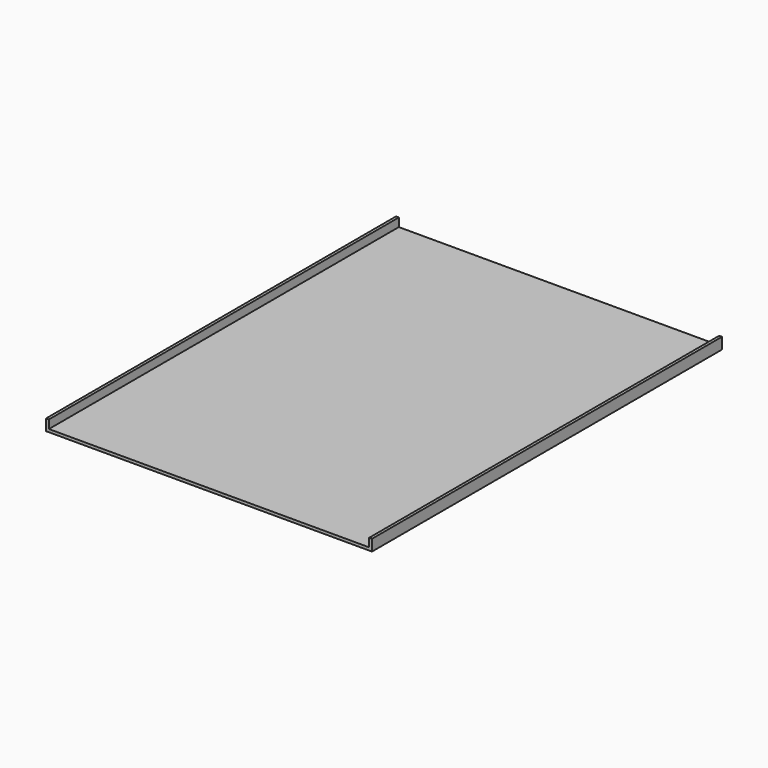
from build123d import *

# Parameters (mm, degrees)
F0_W     = 231
F0_H     = 310
F1_DEPTH = 4
F2_W     = 310
F2_H     = 16
F3_DEPTH = 4


with BuildPart() as f1:
    # F0 (on Top) → F1 (new body)
    with BuildSketch(Plane.XY):
        with Locations((115.5, 155)):
            Rectangle(F0_W, F0_H)
    extrude(amount=F1_DEPTH)

    # F2 (on Right) → F3 (join)
    with BuildSketch(Plane.YZ):
        with Locations((155, 8)):
            Rectangle(F2_W, F2_H)
    extrude(amount=F3_DEPTH)

    # F4: F1 across face


with BuildPart() as f1_1:
    add(f1.part)
    add(f1.part.mirror(Plane(origin=(231, 155, 2), x_dir=(0, 1, 0), z_dir=(1, 0, 0))))

    # F5: F1 across face


with BuildPart() as f1_2:
    add(f1_1.part)
    add(f1_1.part.mirror(Plane(origin=(231, 0, 2.395062), x_dir=(1, 0, 0), z_dir=(0, -1, 0))))


solid = f1_2.part
